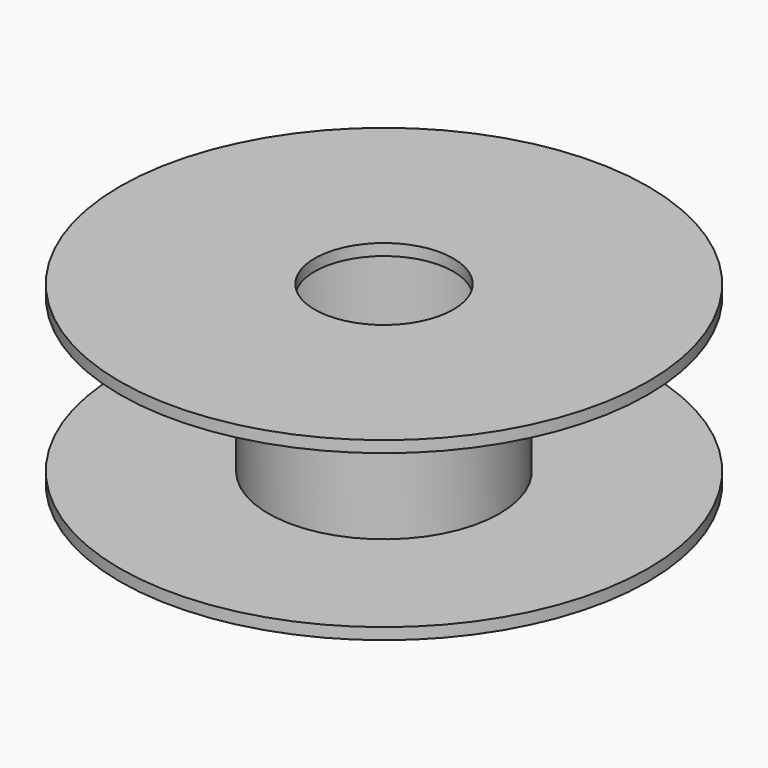
from build123d import *

# Parameters (mm, degrees)
F0_R     = 101.6
F0_R_2   = 26.67
F1_DEPTH = 4.4196
F2_R     = 44.45
F2_R_2   = 26.67
F3_DEPTH = 58.9026
F5_DEPTH = 58.9026
F6_R     = 101.6
F6_R_2   = 44.45
F6_R_3   = 41.275
F6_R_4   = 26.67
F7_DEPTH = 4.4196


with BuildPart() as f1:
    # F0 (on Top) → F1 (new body)
    with BuildSketch(Plane.XY):
        Circle(F0_R)
        Circle(F0_R_2, mode=Mode.SUBTRACT)
    extrude(amount=F1_DEPTH)

    # F2 (on face) → F3 (join)
    with BuildSketch(Plane.XY.offset(4.4196)):
        Circle(F2_R)
        Circle(F2_R_2, mode=Mode.SUBTRACT)
    extrude(amount=F3_DEPTH)

    # F4 (on face) → F5 (cut, through all)
    with BuildSketch(Plane.XY.offset(63.3222)):
        with BuildLine():
            ThreePointArc((-41.275, 0), (0, -41.275), (41.275, 0))
            ThreePointArc((41.275, 0), (0, 41.275), (-41.275, 0))
        make_face()
    extrude(amount=-F5_DEPTH, mode=Mode.SUBTRACT)

    # F6 (on face) → F7 (join)
    with BuildSketch(Plane.XY.offset(63.3222)):
        Circle(F6_R)
        Circle(F6_R_2, mode=Mode.SUBTRACT)
        Circle(F6_R_2)
        Circle(F6_R_3, mode=Mode.SUBTRACT)
        Circle(F6_R_3)
        Circle(F6_R_4, mode=Mode.SUBTRACT)
    extrude(amount=F7_DEPTH)


solid = f1.part
